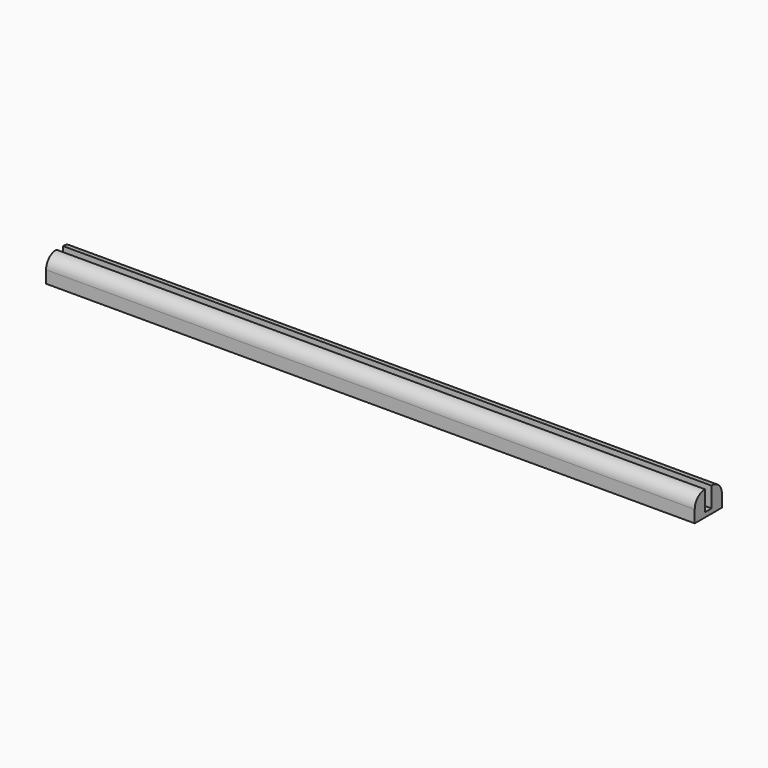
from build123d import *

# Parameters (mm, degrees)
F0_W     = 210
F0_H     = 2.6
F1_DEPTH = 1.5
F0_H_2   = 4.2
F2_DEPTH = 8
F3_R     = 4


with BuildPart() as f1:
    # F0 (on Top) → F1 (new body)
    with BuildSketch(Plane.XY):
        Rectangle(F0_W, F0_H)
    extrude(amount=F1_DEPTH)

    # F0 (on Top) → F2 (join)
    with BuildSketch(Plane.XY):
        with Locations((0, 3.4)):
            Rectangle(F0_W, F0_H_2)
        with Locations((0, -3.4)):
            Rectangle(F0_W, F0_H_2)
    extrude(amount=F2_DEPTH)

    # F3
    f3_edges = [f1.edges().sort_by_distance(p)[0] for p in [
        (0, 5.5, 8),
        (0, -5.5, 8),
    ]]
    fillet(f3_edges, radius=F3_R)


solid = f1.part
